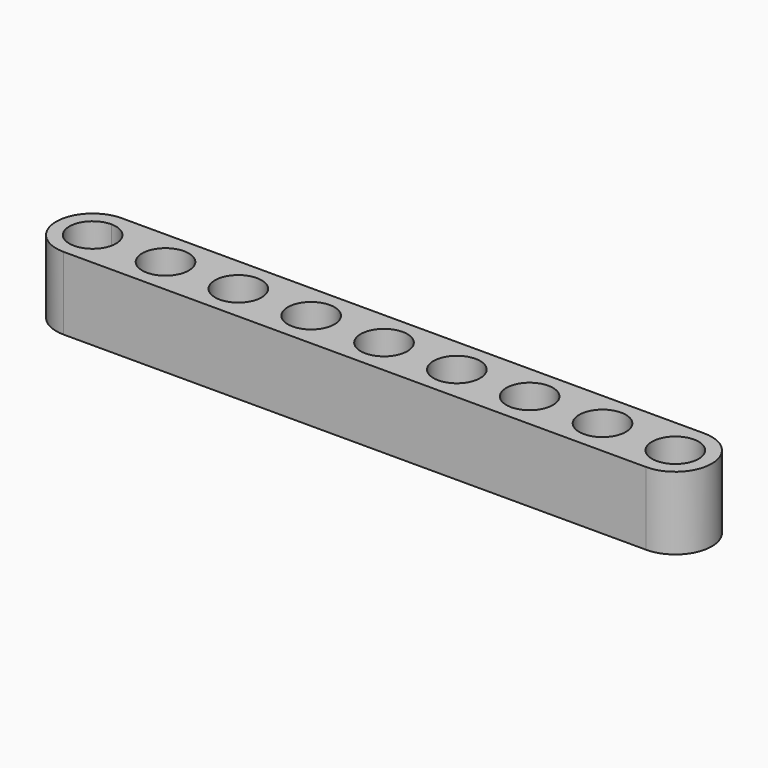
from build123d import *

# Parameters (mm, degrees)
F0_R     = 2.54
F1_DEPTH = 7.9375


with BuildPart() as f1:
    # F0 (on Top) → F1 (new body)
    with BuildSketch(Plane.XY):
        with BuildLine():
            Line((63.5, 0), (0, 0))
            Line((0, 0), (0, -1.42875))
            ThreePointArc((0, -1.42875), (1.796051, -2.172699), (2.54, -3.96875))
            ThreePointArc((2.54, -3.96875), (1.796051, -5.764801), (0, -6.50875))
            Line((0, -6.50875), (0, -7.9375))
            Line((0, -7.9375), (63.5, -7.9375))
            ThreePointArc((63.5, -7.9375), (67.46875, -3.96875), (63.5, 0))
        make_face()
        with Locations((7.9375, -3.96875)):
            Circle(F0_R, mode=Mode.SUBTRACT)
        with Locations((15.875, -3.96875)):
            Circle(F0_R, mode=Mode.SUBTRACT)
        with Locations((23.8125, -3.96875)):
            Circle(F0_R, mode=Mode.SUBTRACT)
        with Locations((31.75, -3.96875)):
            Circle(F0_R, mode=Mode.SUBTRACT)
        with Locations((39.6875, -3.96875)):
            Circle(F0_R, mode=Mode.SUBTRACT)
        with Locations((47.625, -3.96875)):
            Circle(F0_R, mode=Mode.SUBTRACT)
        with Locations((55.5625, -3.96875)):
            Circle(F0_R, mode=Mode.SUBTRACT)
        with Locations((63.5, -3.96875)):
            Circle(F0_R, mode=Mode.SUBTRACT)
        with BuildLine():
            Line((0, -1.42875), (0, 0))
            ThreePointArc((0, 0), (-3.96875, -3.96875), (0, -7.9375))
            Line((0, -7.9375), (0, -6.50875))
            ThreePointArc((0, -6.50875), (-2.54, -3.96875), (0, -1.42875))
        make_face()
    extrude(amount=F1_DEPTH)


solid = f1.part
